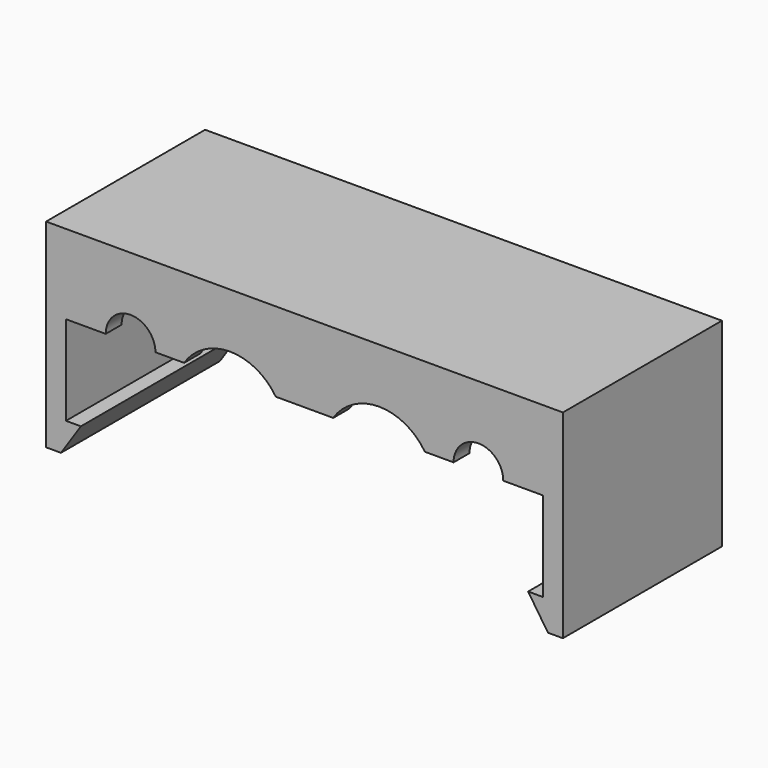
from build123d import *

# Parameters (mm, degrees)
F1_DEPTH = 20
F2_W     = 48
F2_H     = 2
F3_DEPTH = 3.5
F5_DEPTH = 2


with BuildPart() as f1:
    # F0 (on Front) → F1 (new body)
    with BuildSketch(Plane.XZ):
        Polygon((26, -7.568409), (26, 12.431591), (-26, 12.431591), (-26, -7.568409), (-24.5, -7.568409), (-22.5, -4.568409), (-24, -4.568409), (-24, 10.431591), (24, 10.431591), (24, -4.568409), (22.5, -4.568409), (24.5, -7.568409), align=None)
    extrude(amount=F1_DEPTH)

    # F2 (on face) → F3 (join)
    with BuildSketch(Plane(origin=(0, 0, 10.431591), x_dir=(1, 0, 0), z_dir=(0, 0, -1))):
        with Locations((0, 1)):
            Rectangle(F2_W, F2_H)
        with Locations((0, 11)):
            Rectangle(F2_W, F2_H)
    extrude(amount=F3_DEPTH)

    # F4 (on face) → F5 (join)
    with BuildSketch(Plane.XZ.offset(20)):
        with BuildLine():
            Line((26, 12.431591), (-26, 12.431591))
            Line((-26, 12.431591), (-26, 4.431591))
            Line((-26, 4.431591), (-20, 4.431591))
            ThreePointArc((-20, 4.431591), (-17.5, 6.931591), (-15, 4.431591))
            Line((-15, 4.431591), (-12.109772, 4.431591))
            ThreePointArc((-12.109772, 4.431591), (-7.5, 6.931591), (-2.890228, 4.431591))
            Line((-2.890228, 4.431591), (2.890228, 4.431591))
            ThreePointArc((2.890228, 4.431591), (7.5, 6.931591), (12.109772, 4.431591))
            Line((12.109772, 4.431591), (15, 4.431591))
            ThreePointArc((15, 4.431591), (17.5, 6.931591), (20, 4.431591))
            Line((20, 4.431591), (26, 4.431591))
            Line((26, 4.431591), (26, 12.431591))
        make_face()
    extrude(amount=-F5_DEPTH)


solid = f1.part
